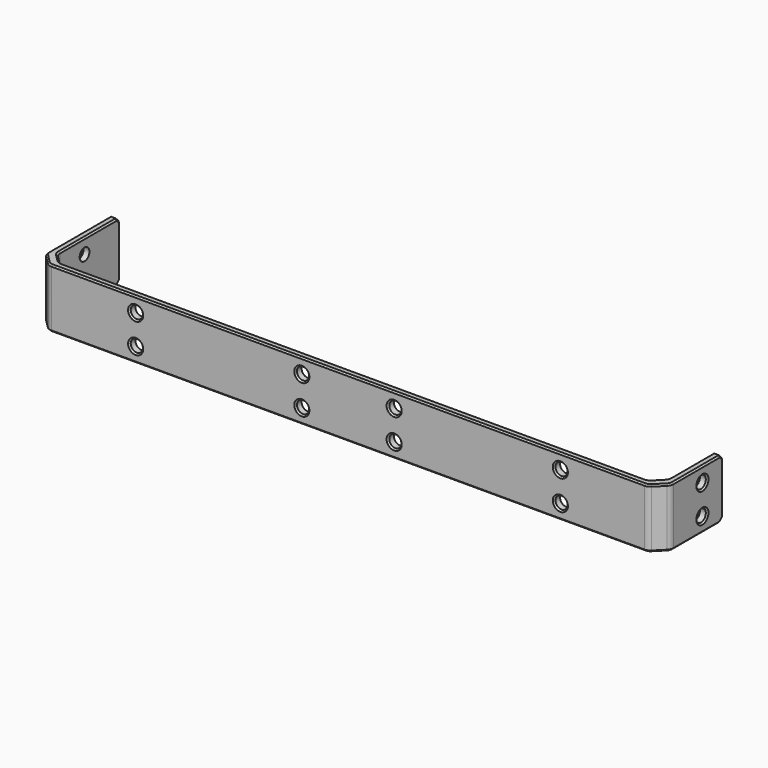
from build123d import *

# Parameters (mm, degrees)
PAD007_DEPTH    = 16
CHAMFER016_SIZE = 3
FILLET_R        = 2
CHAMFER017_SIZE = 3.5
FILLET008_R     = 2
CHAMFER018_SIZE = 1
CHAMFER019_SIZE = 0.4
SKETCH033_R     = 1.65
POCKET024_DEPTH = 26.151
SKETCH034_R     = 1.65
POCKET025_DEPTH = 169.301
CHAMFER023_SIZE = 0.4


with BuildPart() as part:
    # Sketch032 → Pad007 (new body)
    with BuildSketch(Plane.XY):
        Polygon((-7.15, 17), (-5.15, 17), (-5.15, -7.15), (160.15, -7.15), (160.15, 12), (162.15, 12), (162.15, -9.15), (-7.15, -9.15), align=None)
    extrude(amount=PAD007_DEPTH)

    # Chamfer016
    chamfer016_edges = [part.edges().sort_by_distance(p)[0] for p in [
        (160.15, -7.15, 8),
        (-5.15, -7.15, 8),
    ]]
    chamfer(chamfer016_edges, length=CHAMFER016_SIZE)

    # Fillet
    fillet_edges = [part.edges().sort_by_distance(p)[0] for p in [
        (-5.15, -4.15, 8),
        (-2.15, -7.15, 8),
        (157.15, -7.15, 8),
        (160.15, -4.15, 8),
    ]]
    fillet(fillet_edges, radius=FILLET_R)

    # Chamfer017
    chamfer017_edges = [part.edges().sort_by_distance(p)[0] for p in [
        (-7.15, -9.15, 8),
        (162.15, -9.15, 8),
    ]]
    chamfer(chamfer017_edges, length=CHAMFER017_SIZE)

    # Fillet008
    fillet008_edges = [part.edges().sort_by_distance(p)[0] for p in [
        (-7.15, -5.65, 8),
        (-3.65, -9.15, 8),
        (158.65, -9.15, 8),
        (162.15, -5.65, 8),
    ]]
    fillet(fillet008_edges, radius=FILLET008_R)

    # Chamfer018
    chamfer018_edges = [part.edges().sort_by_distance(p)[0] for p in [
        (-6.15, 17, 0),
        (-6.15, 17, 16),
        (161.15, 12, 0),
        (161.15, 12, 16),
    ]]
    chamfer(chamfer018_edges, length=CHAMFER018_SIZE)

    # Chamfer019
    chamfer019_edges = [part.edges().sort_by_distance(p)[0] for p in [
        (-7.15, 5.589214, 16),
        (-7.15, 16.5, 15.5),
        (-7.15, 17, 8),
        (-7.15, 16.5, 0.5),
        (-7.15, 5.589214, 0),
        (-6.997759, -5.58694, 0),
        (-5.4, -7.4, 0),
        (-3.58694, -8.997759, 0),
        (77.5, -9.15, 0),
        (-6.997759, -5.58694, 16),
        (-5.4, -7.4, 16),
        (-3.58694, -8.997759, 16),
        (77.5, -9.15, 16),
        (158.58694, -8.997759, 16),
        (160.4, -7.4, 16),
        (161.997759, -5.58694, 16),
        (162.15, 3.089214, 16),
        (158.58694, -8.997759, 0),
        (160.4, -7.4, 0),
        (161.997759, -5.58694, 0),
        (162.15, 3.089214, 0),
        (162.15, 11.5, 0.5),
        (162.15, 12, 8),
        (162.15, 11.5, 15.5),
        (160.15, 11.5, 15.5),
        (160.15, 12, 8),
        (160.15, 11.5, 0.5),
        (160.15, 3.839214, 0),
        (159.997759, -4.08694, 0),
        (158.65, -5.65, 0),
        (157.08694, -6.997759, 0),
        (77.5, -7.15, 0),
        (-2.08694, -6.997759, 0),
        (-3.65, -5.65, 0),
        (-4.997759, -4.08694, 0),
        (-5.15, 6.339214, 0),
        (-5.15, 16.5, 0.5),
        (-5.15, 17, 8),
        (-5.15, 16.5, 15.5),
        (-5.15, 6.339214, 16),
        (-4.997759, -4.08694, 16),
        (-3.65, -5.65, 16),
        (-2.08694, -6.997759, 16),
        (77.5, -7.15, 16),
        (157.08694, -6.997759, 16),
        (158.65, -5.65, 16),
        (159.997759, -4.08694, 16),
        (160.15, 3.839214, 16),
    ]]
    chamfer(chamfer019_edges, length=CHAMFER019_SIZE)

    # Sketch033 (on Face33 of Chamfer019) → Pocket024 (cut, through all)
    with BuildSketch(Plane.XZ.offset(9.15)):
        with Locations((20, 12)):
            Circle(SKETCH033_R)
        with Locations((20, 4)):
            Circle(SKETCH033_R)
        with Locations((65, 12)):
            Circle(SKETCH033_R)
        with Locations((65, 4)):
            Circle(SKETCH033_R)
        with Locations((90, 12)):
            Circle(SKETCH033_R)
        with Locations((90, 4)):
            Circle(SKETCH033_R)
        with Locations((135, 12)):
            Circle(SKETCH033_R)
        with Locations((135, 4)):
            Circle(SKETCH033_R)
    extrude(amount=-POCKET024_DEPTH, mode=Mode.SUBTRACT)

    # Sketch034 (on Face42 of Pocket024) → Pocket025 (cut, through all)
    with BuildSketch(Plane.YZ.offset(162.15)):
        with Locations((5, 12)):
            Circle(SKETCH034_R)
        with Locations((5, 4)):
            Circle(SKETCH034_R)
    extrude(amount=-POCKET025_DEPTH, mode=Mode.SUBTRACT)

    # Chamfer023
    chamfer023_edges = [part.edges().sort_by_distance(p)[0] for p in [
        (-7.15, 3.35, 4),
        (-7.15, 3.35, 12),
        (18.35, -9.15, 12),
        (18.35, -9.15, 4),
        (63.35, -9.15, 4),
        (63.35, -9.15, 12),
        (88.35, -9.15, 4),
        (88.35, -9.15, 12),
        (133.35, -9.15, 12),
        (133.35, -9.15, 4),
        (162.15, 3.35, 12),
        (162.15, 3.35, 4),
    ]]
    chamfer(chamfer023_edges, length=CHAMFER023_SIZE)


with BuildPart() as part_1:
    # Body004014 placement: moved
    add(part.part.moved(Location((0, 0, -8))))


solid = part_1.part
